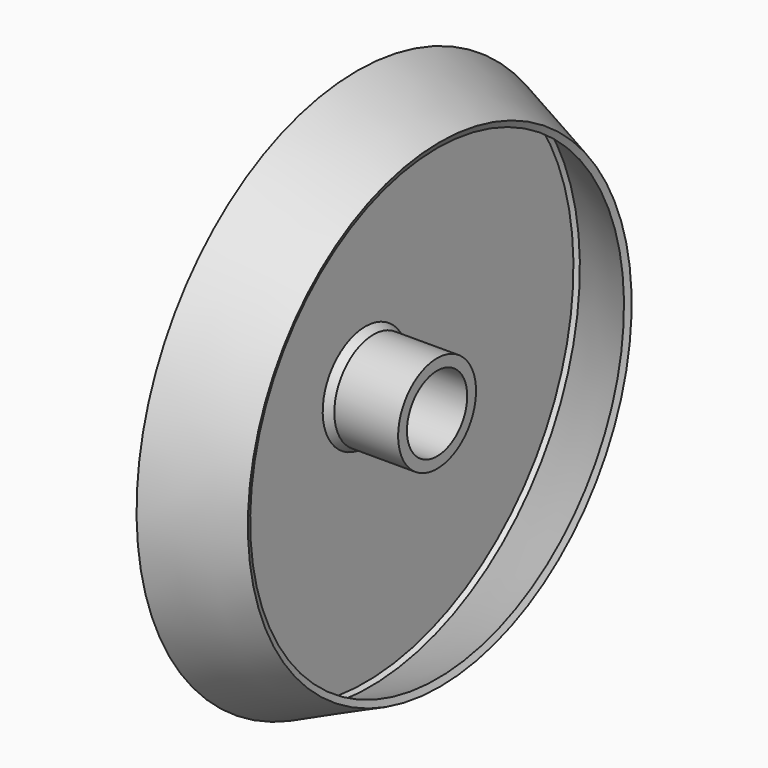
from build123d import *

# Parameters (mm, degrees)
F2_SIZE2 = 0.8660254038
F2_SIZE  = 0.5
F3_SIZE2 = 0.8660254038
F3_SIZE  = 0.5
F4_SIZE  = 0.5


with BuildPart() as f1:
    # F0 (on Front) → F1 (revolve)
    with BuildSketch(Plane.XZ):
        Polygon((0, 4.1), (8.7081384471, 4.1), (8.7081384471, 5.3), (0.9, 5.3), (0.9, 28.81), (8.7081384471, 25.4264733396), (9, 26.1), (0, 30), align=None)
    revolve(axis=Axis((3.0769170262, 0, 0), (-1, 0, 0)))

    # F2
    f2_edges = [f1.edges().sort_by_distance(p)[0] for p in [
        (0, 0, -4.1),
    ]]
    f2_side = f1.faces().sort_by_distance((0, 0, -29.151472))[0]
    chamfer(f2_edges, length=F2_SIZE, length2=F2_SIZE2, reference=f2_side)

    # F3
    f3_edges = [f1.edges().sort_by_distance(p)[0] for p in [
        (0.9, 0, -5.3),
    ]]
    f3_side = f1.faces().sort_by_distance((0.9, 0, -6.11487))[0]
    chamfer(f3_edges, length=F3_SIZE, length2=F3_SIZE2, reference=f3_side)

    # F4
    f4_edges = [f1.edges().sort_by_distance(p)[0] for p in [
        (0.9, 0, -28.81),
    ]]
    chamfer(f4_edges, length=F4_SIZE)


solid = f1.part
